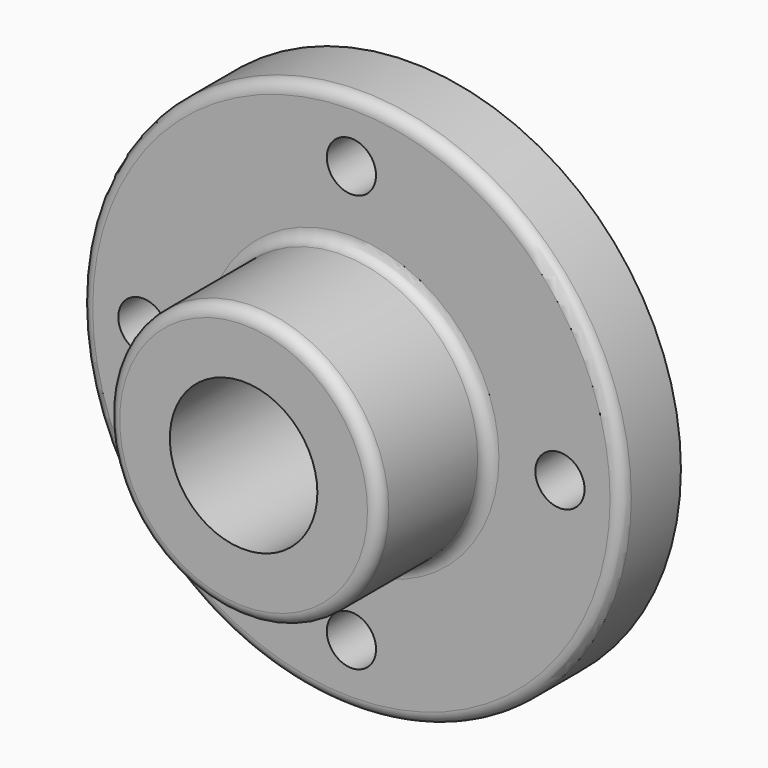
from build123d import *

# Parameters (mm, degrees)
F0_R     = 69.85
F1_DEPTH = 19.05
F2_R     = 35.052
F3_DEPTH = 53.848
F4_R     = 19.05
F5_DEPTH = 53.849
F6_R     = 6.35
F7_DEPTH = 53.849
F8_R     = 3.048


with BuildPart() as f1:
    # F0 (on Front) → F1 (new body)
    with BuildSketch(Plane.XZ):
        Circle(F0_R)
    extrude(amount=F1_DEPTH)

    # F2 (on Front) → F3 (join)
    with BuildSketch(Plane.XZ):
        Circle(F2_R)
    extrude(amount=F3_DEPTH)

    # F4 (on Front) → F5 (cut, through all)
    with BuildSketch(Plane.XZ):
        Circle(F4_R)
    extrude(amount=F5_DEPTH, mode=Mode.SUBTRACT)

    # F6 (on Front) → F7 (cut, through all)
    with BuildSketch(Plane.XZ):
        with Locations((53.848, 0)):
            Circle(F6_R)
        with Locations((0, 53.848)):
            Circle(F6_R)
        with Locations((-53.848, 0)):
            Circle(F6_R)
        with Locations((0, -53.848)):
            Circle(F6_R)
    extrude(amount=F7_DEPTH, mode=Mode.SUBTRACT)

    # F8
    f8_edges = [f1.edges().sort_by_distance(p)[0] for p in [
        (-69.85, -19.05, 0),
        (-35.052, -19.05, 0),
        (-35.052, -53.848, 0),
    ]]
    fillet(f8_edges, radius=F8_R)


solid = f1.part
